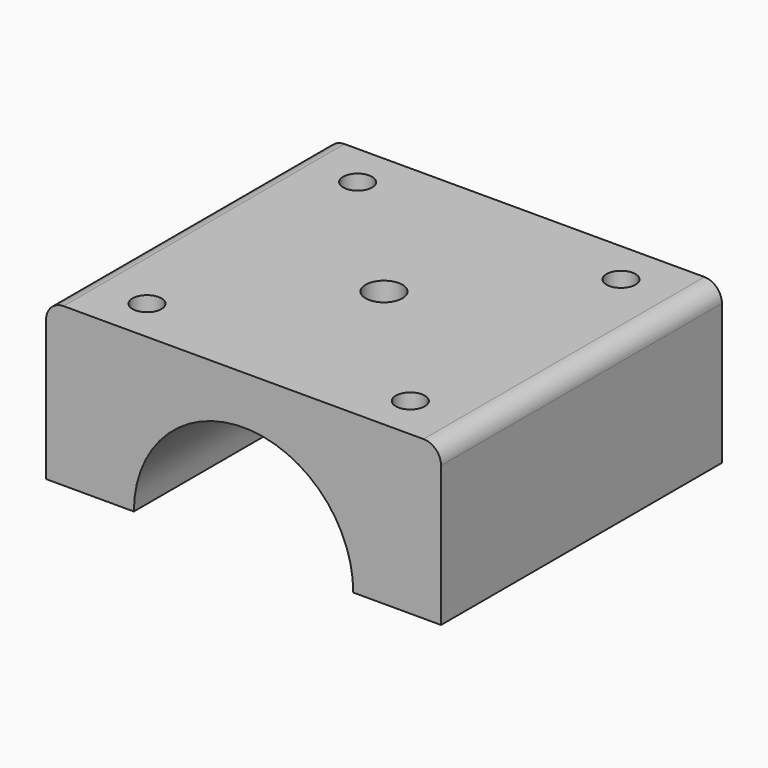
from build123d import *

# Parameters (mm, degrees)
F1_DEPTH = 40
F3_D     = 3.3
F5_D     = 4.2
F6_R     = 2
F9_DEPTH = 3


with BuildPart() as f1:
    # F0 (on Front) → F1 (new body)
    with BuildSketch(Plane.XZ):
        with BuildLine():
            Line((15, -6.1671362493), (25, -6.1671362493))
            Line((25, -6.1671362493), (25, 11.8328637507))
            Line((25, 11.8328637507), (-20, 11.8328637507))
            Line((-20, 11.8328637507), (-20, -6.1671362493))
            Line((-20, -6.1671362493), (-10, -6.1671362493))
            ThreePointArc((-10, -6.1671362493), (2.5, 6.3328637507), (15, -6.1671362493))
        make_face()
    extrude(amount=-F1_DEPTH)

    # F3 (through all)
    with Locations(Plane.XY.offset(11.8328637507)):
        with Locations((-12.5, 5), (-12.5, 35), (17.5, 35), (17.5, 5)):
            Hole(F3_D / 2)

    # F5 (through all)
    with Locations(Plane.XY.offset(11.8328637507)):
        with Locations((2.5, 20)):
            Hole(F5_D / 2)

    # F6
    f6_edges = [f1.edges().sort_by_distance(p)[0] for p in [
        (-20, 20, 11.832864),
        (25, 20, 11.832864),
    ]]
    fillet(f6_edges, radius=F6_R)


with BuildPart() as f9:
    # F8 (on Top) → F9 (new body)
    with BuildSketch(Plane.XY):
        Polygon((57.5, 170.0064360575), (30, 217.6378332657), (-30, 217.6378332657), (-57.5, 170.0064360575), (-57.5, 30.0064360575), (-40, -0.3044530749), (40, -0.3044530749), (57.5, 30.0064360575), align=None)
    extrude(amount=F9_DEPTH)


solid = f1.part
